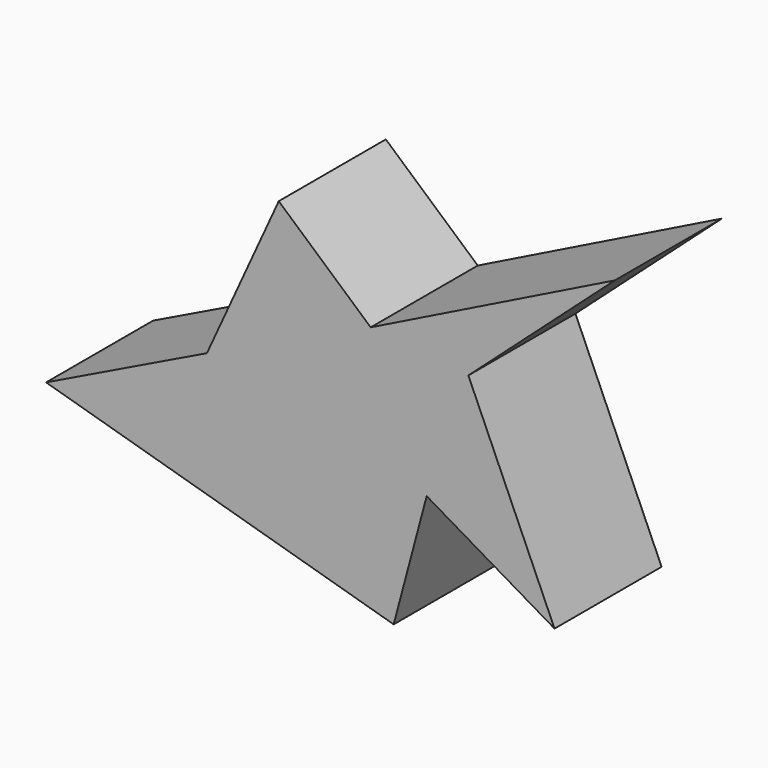
from build123d import *

# Parameters (mm, degrees)
F1_DEPTH = 50.8


with BuildPart() as f1:
    # F0 (on Front) → F1 (new body)
    with BuildSketch(Plane.XZ):
        Polygon((-131.935537, 37.967242), (0, 0), (12.539328, 46.962254), (61.061069, 18.444592), (28.349791, 92.415459), (83.958983, 142.270118), (-8.723013, 96.433535), (-43.615054, 127.250195), (-70.87446, 67.588188), align=None)
    extrude(amount=-F1_DEPTH)


solid = f1.part
